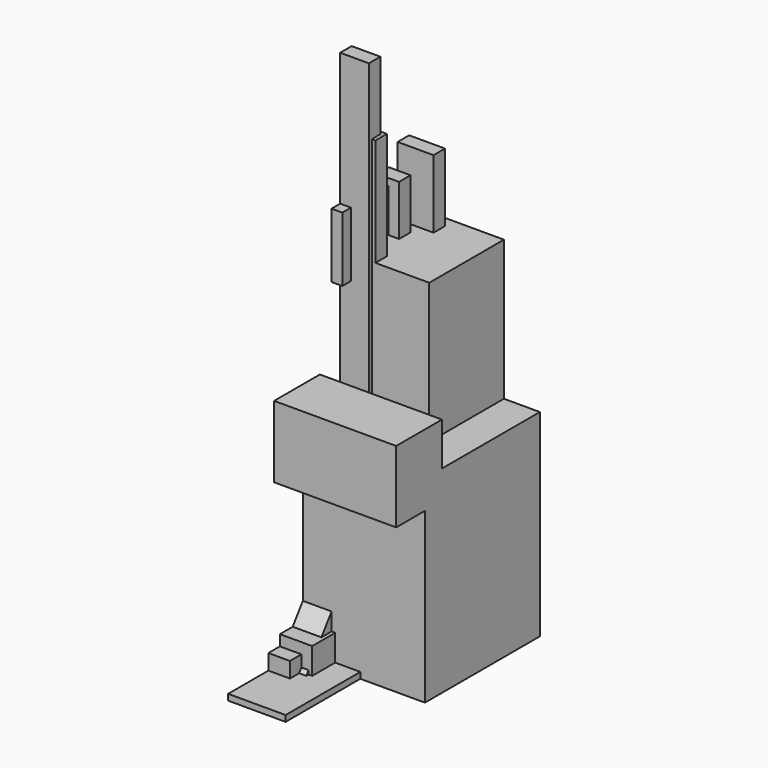
from build123d import *

# Parameters (mm, degrees)
F1_DEPTH  = 431.8
F2_W      = 279.4
F2_H      = 330.2
F3_DEPTH  = 241.3
F4_W      = 88.9
F4_H      = 419.1
F5_DEPTH  = 101.6
F6_W      = 311.15
F6_H      = 457.2
F7_DEPTH  = 50.8
F8_W      = 50.8
F8_H      = 1460.5
F9_DEPTH  = 114.3
F10_W     = 165.1
F10_H     = 228.6
F11_DEPTH = 38.1
F12_W     = 50.8
F12_H     = 1409.7
F13_DEPTH = 101.6
F14_W     = 50.8
F14_H     = 1219.2
F15_DEPTH = 76.2
F17_DEPTH = 127
F19_DEPTH = 203.2
F20_W     = 406.4
F20_H     = 330.2
F21_DEPTH = 228.6
F22_W     = 660.4
F22_H     = 76.2
F23_DEPTH = 76.2
F25_DEPTH = 139.7
F26_W     = 330.2
F26_H     = 1193.8
F27_DEPTH = 304.8
F29_DEPTH = 38.1


with BuildPart() as f1:
    # F0 (on Right) → F1 (new body)
    with BuildSketch(Plane.YZ):
        Polygon((-508, 0), (0, 0), (0, 698.5), (-432.838172, 698.5), (-432.838172, 850.9), (-635, 850.9), (-635, 597.32157), (-508, 597.32157), align=None)
    extrude(amount=F1_DEPTH)


with BuildPart() as f3:
    # F2 (on Right) → F3 (new body)
    with BuildSketch(Plane.YZ):
        with Locations((-139.7, 165.1)):
            Rectangle(F2_W, F2_H)
    extrude(amount=F3_DEPTH)


with BuildPart() as f5:
    # F4 (on Right) → F5 (new body)
    with BuildSketch(Plane.YZ):
        with Locations((-44.45, 209.55)):
            Rectangle(F4_W, F4_H)
    extrude(amount=F5_DEPTH)


with BuildPart() as f7:
    # F6 (on Right) → F7 (new body)
    with BuildSketch(Plane.YZ):
        with Locations((-155.575, 228.6)):
            Rectangle(F6_W, F6_H)
    extrude(amount=F7_DEPTH)


with BuildPart() as f9:
    # F8 (on Right) → F9 (new body)
    with BuildSketch(Plane.YZ):
        Polygon((-609.6, 0), (0, 0), (0, 114.3), (-279.4, 114.3), (-330.2, 114.3), (-609.6, 114.3), align=None)
        with Locations((-304.8, 844.55)):
            Rectangle(F8_W, F8_H)
    extrude(amount=F9_DEPTH)


with BuildPart() as f11:
    # F10 (on Right) → F11 (new body)
    with BuildSketch(Plane.YZ):
        with Locations((-82.55, 114.3)):
            Rectangle(F10_W, F10_H)
        Polygon((-215.9, 0), (-165.1, 0), (-165.1, 228.6), (-165.1, 1117.6), (0, 1117.6), (0, 1346.2), (-381, 1346.2), (-381, 1117.6), (-215.9, 1117.6), (-215.9, 228.6), align=None)
        with Locations((-298.45, 114.3)):
            Rectangle(F10_W, F10_H)
    extrude(amount=F11_DEPTH)


with BuildPart() as f13:
    # F12 (on Right) → F13 (new body)
    with BuildSketch(Plane.YZ):
        Polygon((-635, 0), (0, 0), (-292.1, 406.4), (-342.9, 406.4), align=None)
        with Locations((-317.5, 1111.25)):
            Rectangle(F12_W, F12_H)
    extrude(amount=F13_DEPTH)


with BuildPart() as f15:
    # F14 (on Right) → F15 (new body)
    with BuildSketch(Plane.YZ):
        Polygon((-304.8, 0), (0, 0), (0, 152.4), (-127, 152.4), (-177.8, 152.4), (-304.8, 152.4), align=None)
        with Locations((-152.4, 762)):
            Rectangle(F14_W, F14_H)
    extrude(amount=F15_DEPTH)


with BuildPart() as f17:
    # F16 (on Right) → F17 (new body)
    with BuildSketch(Plane.YZ):
        Polygon((-127, 0), (0, 0), (0, 304.8), (-38.1, 304.8), (-38.1, 1435.1), (-88.9, 1435.1), (-88.9, 304.8), (-127, 304.8), align=None)
    extrude(amount=F17_DEPTH)


with BuildPart() as f19:
    # F18 (on Right) → F19 (new body)
    with BuildSketch(Plane.YZ):
        Polygon((-838.2, 0), (0, 0), (0, 177.8), (-419.1, 177.8), (-419.1, 21.471366), (-838.2, 21.471366), align=None)
    extrude(amount=F19_DEPTH)


with BuildPart() as f21:
    # F20 (on Right) → F21 (new body)
    with BuildSketch(Plane.YZ):
        with Locations((-203.2, 165.1)):
            Rectangle(F20_W, F20_H)
    extrude(amount=F21_DEPTH)


with BuildPart() as f23:
    # F22 (on Right) → F23 (new body)
    with BuildSketch(Plane.YZ):
        with Locations((-330.2, 38.1)):
            Rectangle(F22_W, F22_H)
    extrude(amount=F23_DEPTH)


with BuildPart() as f25:
    # F24 (on Right) → F25 (new body)
    with BuildSketch(Plane.YZ):
        Polygon((-406.4, 0), (0, 0), (0, 110.25124), (-100.072682, 110.25124), (-100.072682, 812.8), (-273.669153, 812.8), (-273.669153, 110.25124), (-406.4, 110.25124), align=None)
    extrude(amount=F25_DEPTH)


with BuildPart() as f27:
    # F26 (on Right) → F27 (new body)
    with BuildSketch(Plane.YZ):
        with Locations((-165.1, 596.9)):
            Rectangle(F26_W, F26_H)
    extrude(amount=F27_DEPTH)


with BuildPart() as f29:
    # F28 (on Right) → F29 (new body)
    with BuildSketch(Plane.YZ):
        Polygon((-62.381421, 0), (0, 0), (0, 177.014232), (-72.514658, 584.2), (-156.085342, 584.2), (-228.6, 177.014232), (-228.6, 0), (-166.218579, 0), (-114.3, 239.262546), align=None)
    extrude(amount=F29_DEPTH)


solid = Compound([f1.part, f3.part, f5.part, f7.part, f9.part, f11.part, f13.part, f15.part, f17.part, f19.part, f21.part, f23.part, f25.part, f27.part, f29.part])
